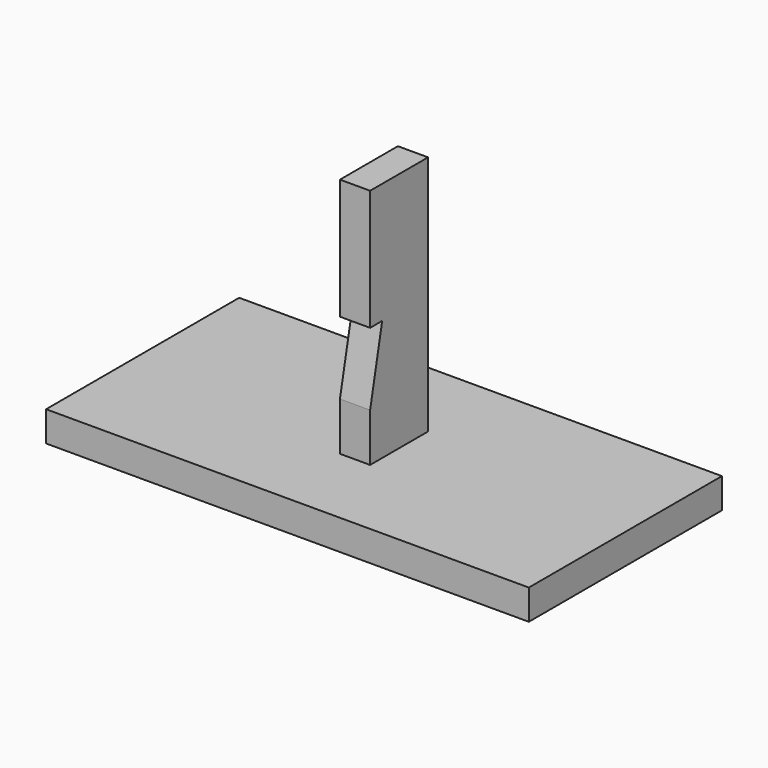
from build123d import *

# Parameters (mm, degrees)
F0_W     = 50.8
F0_H     = 25.4
F1_DEPTH = 3.175
F2_W     = 1.5875
F2_H     = 3.81
F3_DEPTH = 25.4
F5_DEPTH = 3.175


with BuildPart() as f1:
    # F0 (on Top) → F1 (new body)
    with BuildSketch(Plane.XY):
        with Locations((25.4, -12.7)):
            Rectangle(F0_W, F0_H)
    extrude(amount=F1_DEPTH)

    # F2 (on face) → F3 (join)
    with BuildSketch(Plane.XY.offset(3.175)):
        with Locations((26.19375, -14.605)):
            Rectangle(F2_W, F2_H)
        with Locations((24.60625, -14.605)):
            Rectangle(F2_W, F2_H)
        with Locations((26.19375, -10.795)):
            Rectangle(F2_W, F2_H)
        with Locations((24.60625, -10.795)):
            Rectangle(F2_W, F2_H)
    extrude(amount=F3_DEPTH)

    # F4 (on face) → F5 (cut, through all)
    with BuildSketch(Plane.YZ.offset(26.9875)):
        Polygon((-14.9225, 15.875), (-16.51, 15.875), (-16.51, 8.255), align=None)
    extrude(amount=-F5_DEPTH, mode=Mode.SUBTRACT)


solid = f1.part
